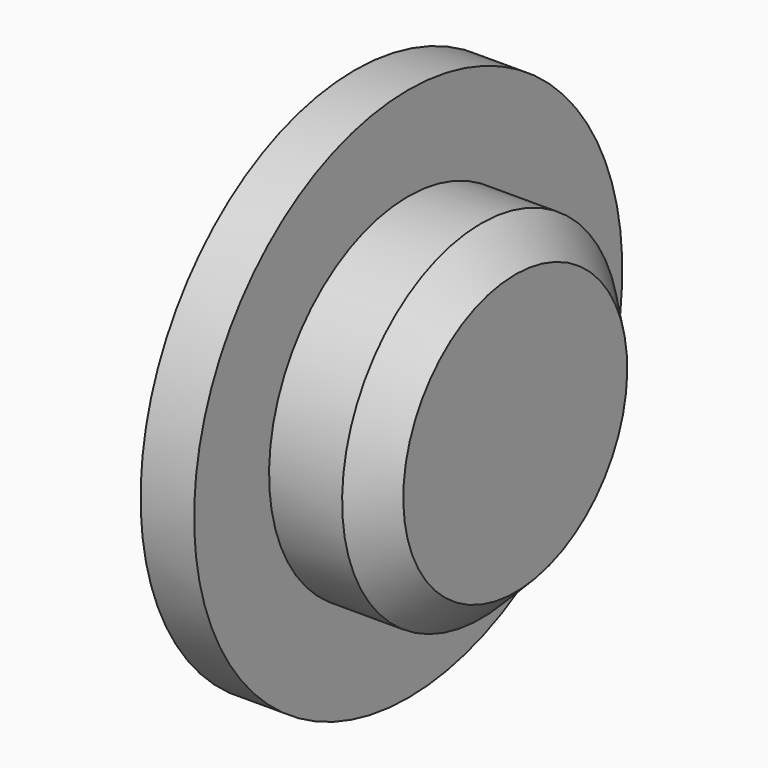
from build123d import *

# Parameters (mm, degrees)
F2_SIZE = 1.27


with BuildPart() as f1:
    # F0 (on Front) → F1 (revolve)
    with BuildSketch(Plane.XZ):
        Polygon((4, 6.5), (0, 6.5), (0, 10), (-2, 10), (-2, 0), (4, 0), align=None)
    revolve(axis=Axis((0, 0, 0), (1, 0, 0)))

    # F2
    f2_edges = [f1.edges().sort_by_distance(p)[0] for p in [
        (4, 0, -6.5),
    ]]
    chamfer(f2_edges, length=F2_SIZE)


solid = f1.part
